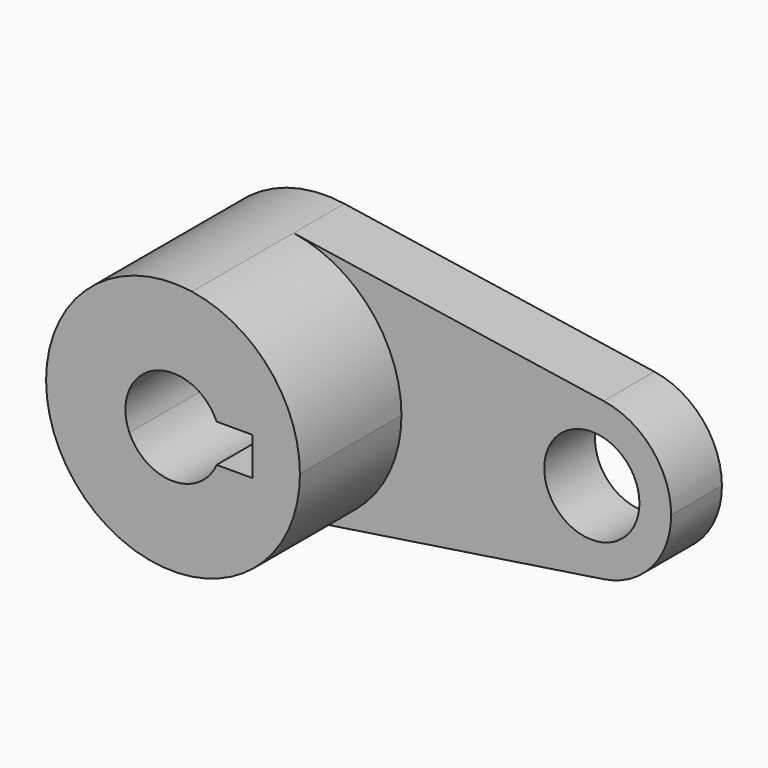
from build123d import *

# Parameters (mm, degrees)
F0_R     = 7.5
F1_DEPTH = 10
F2_DEPTH = 30


with BuildPart() as f1:
    # F0 (on Front) → F1 (new body)
    with BuildSketch(Plane.XZ):
        with BuildLine():
            ThreePointArc((3, -19.77372), (15.165751, -13.038405), (20, 0))
            ThreePointArc((20, 0), (15.165751, 13.038405), (3, 19.77372))
            ThreePointArc((3, 19.77372), (-20, 0), (3, -19.77372))
        make_face()
        with BuildLine():
            Line((12.5, 3), (12.5, -3))
            Line((12.5, -3), (6.873864, -3))
            ThreePointArc((6.873864, -3), (0, -7.5), (-6.873864, -3))
            Line((-6.873864, -3), (-12.5, -3))
            Line((-12.5, -3), (-12.5, 3))
            Line((-12.5, 3), (-6.873864, 3))
            ThreePointArc((-6.873864, 3), (0, 7.5), (6.873864, 3))
            Line((6.873864, 3), (12.5, 3))
        make_face(mode=Mode.SUBTRACT)
        with BuildLine():
            ThreePointArc((3, 19.77372), (15.165751, 13.038405), (20, 0))
            ThreePointArc((20, 0), (15.165751, -13.038405), (3, -19.77372))
            Line((3, -19.77372), (51.875, -12.358575))
            ThreePointArc((51.875, -12.358575), (37.5, 0), (51.875, 12.358575))
            Line((51.875, 12.358575), (3, 19.77372))
        make_face()
        with BuildLine():
            ThreePointArc((62.5, 0), (59.478594, 8.149003), (51.875, 12.358575))
            ThreePointArc((51.875, 12.358575), (37.5, 0), (51.875, -12.358575))
            ThreePointArc((51.875, -12.358575), (59.478594, -8.149003), (62.5, 0))
        make_face()
        with Locations((50, 0)):
            Circle(F0_R, mode=Mode.SUBTRACT)
        with BuildLine():
            Line((-12.5, -3), (-6.873864, -3))
            ThreePointArc((-6.873864, -3), (-7.5, 0), (-6.873864, 3))
            Line((-6.873864, 3), (-12.5, 3))
            Line((-12.5, 3), (-12.5, -3))
        make_face()
    extrude(amount=F1_DEPTH)

    # F0 (on Front) → F2 (join)
    with BuildSketch(Plane.XZ):
        with BuildLine():
            ThreePointArc((3, -19.77372), (15.165751, -13.038405), (20, 0))
            ThreePointArc((20, 0), (15.165751, 13.038405), (3, 19.77372))
            ThreePointArc((3, 19.77372), (-20, 0), (3, -19.77372))
        make_face()
        with BuildLine():
            Line((12.5, 3), (12.5, -3))
            Line((12.5, -3), (6.873864, -3))
            ThreePointArc((6.873864, -3), (0, -7.5), (-6.873864, -3))
            Line((-6.873864, -3), (-12.5, -3))
            Line((-12.5, -3), (-12.5, 3))
            Line((-12.5, 3), (-6.873864, 3))
            ThreePointArc((-6.873864, 3), (0, 7.5), (6.873864, 3))
            Line((6.873864, 3), (12.5, 3))
        make_face(mode=Mode.SUBTRACT)
        with BuildLine():
            Line((-12.5, -3), (-6.873864, -3))
            ThreePointArc((-6.873864, -3), (-7.5, 0), (-6.873864, 3))
            Line((-6.873864, 3), (-12.5, 3))
            Line((-12.5, 3), (-12.5, -3))
        make_face()
    extrude(amount=F2_DEPTH)


solid = f1.part
